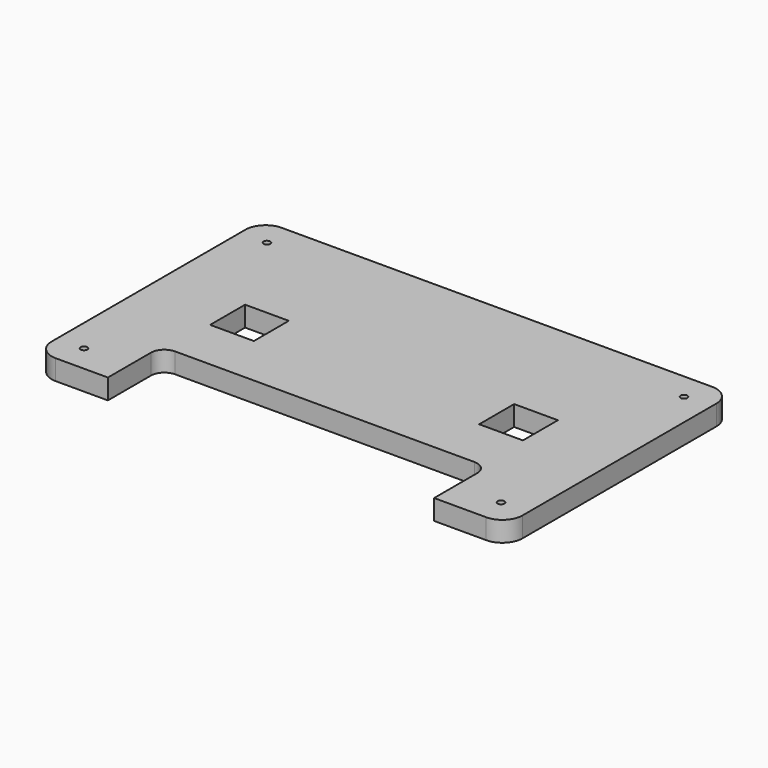
from build123d import *

# Parameters (mm, degrees)
F1_DEPTH = 3
F3_D     = 4
F4_W     = 6.5
F4_H     = 6.5
F5_DEPTH = 3
F6_R     = 2
F7_DEPTH = 3.001
F9_D     = 1


with BuildPart() as f1:
    # F0 (on Top) → F1 (new body)
    with BuildSketch(Plane.XY):
        with BuildLine():
            ThreePointArc((0, 3), (0.87868, 0.87868), (3, 0))
            Line((3, 0), (67, 0))
            ThreePointArc((67, 0), (69.12132, 0.87868), (70, 3))
            Line((70, 3), (70, 39))
            ThreePointArc((70, 39), (69.12132, 41.12132), (67, 42))
            Line((67, 42), (3, 42))
            ThreePointArc((3, 42), (0.87868, 41.12132), (0, 39))
            Line((0, 39), (0, 3))
        make_face()
    extrude(amount=F1_DEPTH)

    # F3 (through all)
    with Locations(Plane.XY.offset(3)):
        with Locations((14, 7), (24.5, 7), (35, 7), (45.5, 7), (56, 7)):
            Hole(F3_D / 2)

    # F4 (on face) → F5 (cut, through all)
    with BuildSketch(Plane.XY.offset(3)):
        with Locations((15, 21)):
            Rectangle(F4_W, F4_H)
        with Locations((55, 21)):
            Rectangle(F4_W, F4_H)
    extrude(amount=-F5_DEPTH, mode=Mode.SUBTRACT)

    # F6 (on face) → F7 (cut, through all)
    with BuildSketch(Plane.XY.offset(3)):
        with BuildLine():
            Line((57.25, 10), (12.75, 10))
            ThreePointArc((12.75, 10), (11.335786, 9.414214), (10.75, 8))
            Line((10.75, 8), (10.75, 0))
            Line((10.75, 0), (59.25, 0))
            Line((59.25, 0), (59.25, 8))
            ThreePointArc((59.25, 8), (58.664214, 9.414214), (57.25, 10))
        make_face()
        with Locations((14, 7)):
            Circle(F6_R, mode=Mode.SUBTRACT)
        with Locations((24.5, 7)):
            Circle(F6_R, mode=Mode.SUBTRACT)
        with Locations((35, 7)):
            Circle(F6_R, mode=Mode.SUBTRACT)
        with Locations((45.5, 7)):
            Circle(F6_R, mode=Mode.SUBTRACT)
        with Locations((56, 7)):
            Circle(F6_R, mode=Mode.SUBTRACT)
    extrude(amount=-F7_DEPTH, mode=Mode.SUBTRACT)

    # F9 (through all)
    with Locations(Plane.XY.offset(3)):
        with Locations((4, 38), (4, 4), (66, 4), (66, 38)):
            Hole(F9_D / 2)


solid = f1.part
